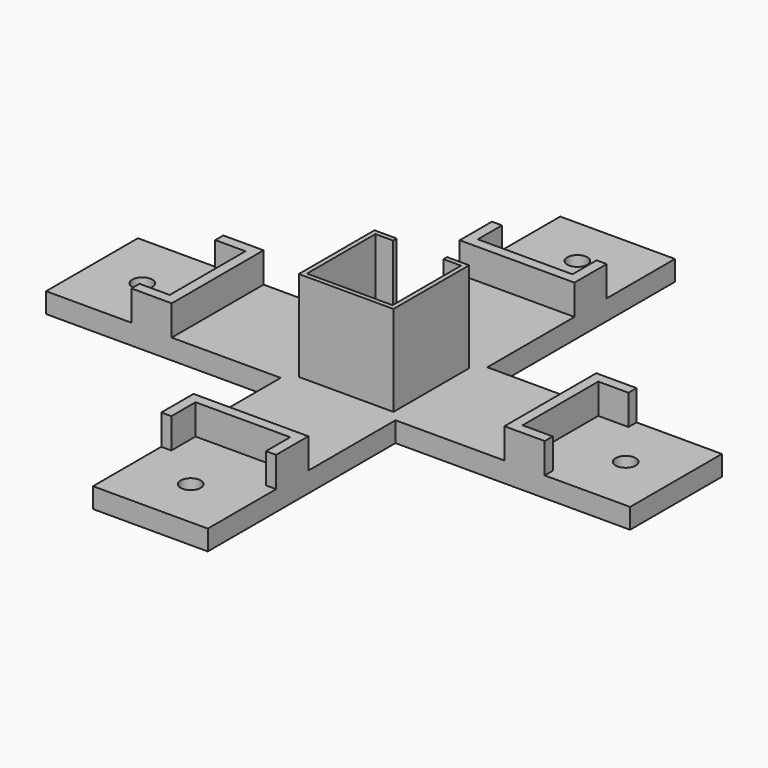
from build123d import *

# Parameters (mm, degrees)
PAD029_DEPTH    = 10
PAD030_DEPTH    = 15
PAD031_DEPTH    = 15
PAD032_DEPTH    = 15
PAD033_DEPTH    = 15
SKETCH072_R     = 5
POCKET034_DEPTH = 10.001
SKETCH079_W     = 47
SKETCH079_H     = 47
PAD038_DEPTH    = 45
POCKET037_DEPTH = 35.25
SKETCH081_R     = 2.5
POCKET038_DEPTH = 10.001
SKETCH082_W     = 25
SKETCH082_H     = 9
PAD039_DEPTH    = 9.75


with BuildPart() as part:
    # Sketch067 → Pad029 (new body)
    with BuildSketch(Plane.XY):
        Polygon((-145, 28.5), (-28.5, 28.5), (-28.5, 145), (28.5, 145), (28.5, 28.5), (145, 28.5), (145, -28.5), (28.5, -28.5), (28.5, -145), (-28.5, -145), (-28.5, -28.5), (-145, -28.5), align=None)
    extrude(amount=-PAD029_DEPTH)

    # Sketch068 (on Face13 of Pad029) → Pad030 (join)
    with BuildSketch(Plane.XY):
        Polygon((-82.6, 28.5), (-82.6, -28.5), (-102.6, -28.5), (-102.6, -23.5), (-87.6, -23.5), (-87.6, 23.5), (-102.6, 23.5), (-102.6, 28.5), align=None)
    extrude(amount=PAD030_DEPTH)

    # Sketch069 (on Face7 of Pad030) → Pad031 (join)
    with BuildSketch(Plane.XY):
        Polygon((-28.5, 82.6), (28.5, 82.6), (28.5, 102.6), (23.5, 102.6), (23.5, 87.6), (-23.5, 87.6), (-23.5, 102.6), (-28.5, 102.6), align=None)
    extrude(amount=PAD031_DEPTH)

    # Sketch070 (on Face7 of Pad031) → Pad032 (join)
    with BuildSketch(Plane.XY):
        Polygon((82.6, 28.5), (102.6, 28.5), (102.6, 23.5), (87.6, 23.5), (87.6, -23.5), (102.6, -23.5), (102.6, -28.5), (82.6, -28.5), align=None)
    extrude(amount=PAD032_DEPTH)

    # Sketch071 (on Face7 of Pad032) → Pad033 (join)
    with BuildSketch(Plane.XY):
        Polygon((-28.5, -82.6), (28.5, -82.6), (28.5, -102.6), (23.5, -102.6), (23.5, -87.6), (-23.5, -87.6), (-23.5, -102.6), (-28.5, -102.6), align=None)
    extrude(amount=PAD033_DEPTH)

    # Sketch072 (on Face7 of Pad033) → Pocket034 (cut, through all)
    with BuildSketch(Plane.XY):
        with Locations((-120, 0)):
            Circle(SKETCH072_R)
        with Locations((0, 120)):
            Circle(SKETCH072_R)
        with Locations((120, 0)):
            Circle(SKETCH072_R)
        with Locations((0, -120)):
            Circle(SKETCH072_R)
    extrude(amount=-POCKET034_DEPTH, mode=Mode.SUBTRACT)

    # Sketch079 (on Face7 of Pocket034) → Pad038 (join)
    with BuildSketch(Plane.XY):
        Rectangle(SKETCH079_W, SKETCH079_H)
    extrude(amount=PAD038_DEPTH)

    # Sketch080 (on Face53 of Pad038) → Pocket037 (cut)
    with BuildSketch(Plane.XY.offset(45)):
        Polygon((-21.25, 21.25), (-12.5, 21.25), (-12.5, 23.5), (12.5, 23.5), (12.5, 21.25), (21.25, 21.25), (21.25, -21.25), (-21.25, -21.25), align=None)
    extrude(amount=-POCKET037_DEPTH, mode=Mode.SUBTRACT)

    # Sketch081 (on Face7 of Pocket037) → Pocket038 (cut, through all)
    with BuildSketch(Plane.XY):
        with Locations((0, 35.5)):
            Circle(SKETCH081_R)
    extrude(amount=-POCKET038_DEPTH, mode=Mode.SUBTRACT)

    # Sketch082 (on Face7 of Pocket038) → Pad039 (join)
    with BuildSketch(Plane.XY):
        with Locations((0, 28)):
            Rectangle(SKETCH082_W, SKETCH082_H)
    extrude(amount=PAD039_DEPTH)


solid = part.part
